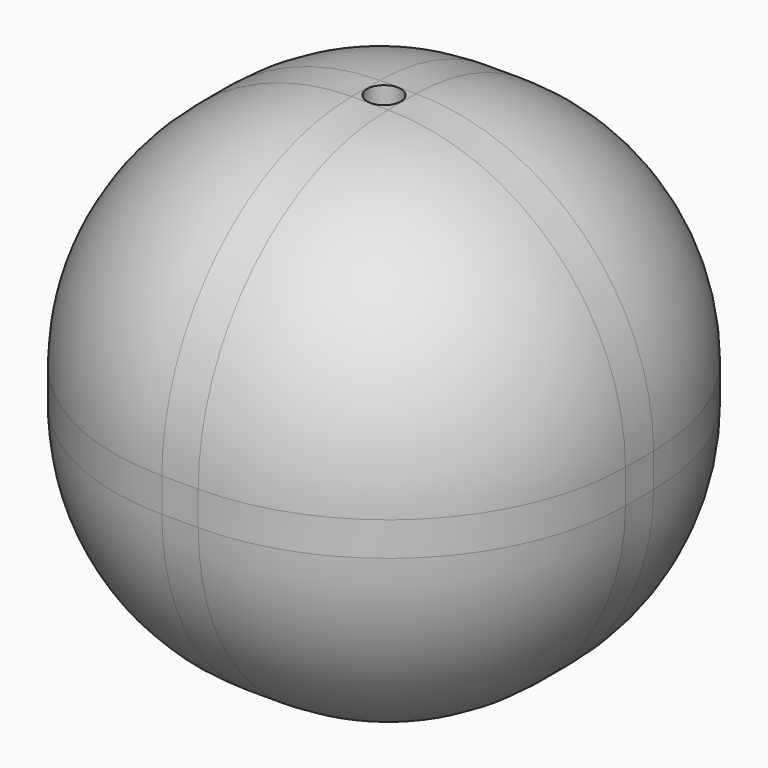
from build123d import *

# Parameters (mm, degrees)
F1_W     = 76.560207
F1_H     = 76.388307
F2_DEPTH = 76.2
F3_R     = 35.56
F0_D     = 5.08


with BuildPart() as f2:
    # F1 (on Top) → F2 (new body)
    with BuildSketch(Plane.XY):
        with Locations((38.280103, 38.194153)):
            Rectangle(F1_W, F1_H)
        with Locations((38.280103, 38.194153)):
            Rectangle(F1_W, F1_H)
    extrude(amount=F2_DEPTH)

    # F3
    f3_edges = [f2.edges().sort_by_distance(p)[0] for p in [
        (76.560207, 76.388307, 38.1),
        (0, 76.388307, 38.1),
        (38.280103, 76.388307, 0),
        (38.280103, 76.388307, 76.2),
        (38.280103, 0, 76.2),
        (0, 38.194153, 76.2),
        (76.560207, 0, 38.1),
        (0, 38.194153, 0),
        (0, 0, 38.1),
        (38.280103, 0, 0),
        (76.560207, 38.194153, 0),
        (76.560207, 38.194153, 76.2),
    ]]
    fillet(f3_edges, radius=F3_R)

    # F0 (through all)
    with Locations(Plane.XY.offset(76.2)):
        with Locations((38.280103, 38.194153)):
            Hole(F0_D / 2)


solid = f2.part
